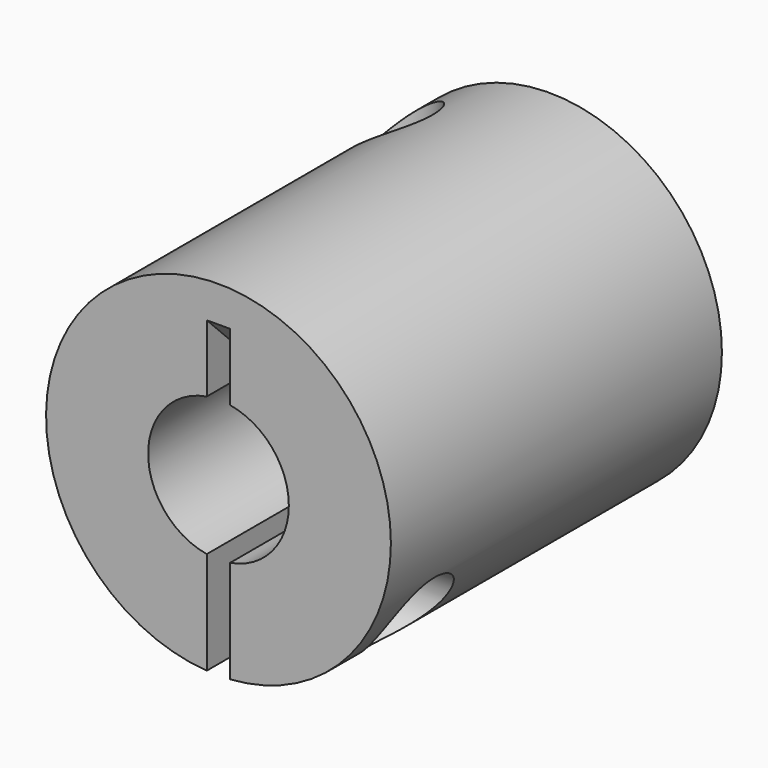
from build123d import *

# Parameters (mm, degrees)
F0_R      = 12.5
F1_DEPTH  = 30
F2_R      = 5.1
F3_DEPTH  = 21
F4_R      = 3.25
F5_DEPTH  = 30
F7_DEPTH  = 9
F11_DEPTH = 4.7828926987
F13_DEPTH = 9
F17_DEPTH = 25
F19_R     = 3
F20_DEPTH = 6.6740273092
F21_R     = 1
F22_DEPTH = 17.5010001
F24_R     = 3
F25_DEPTH = 6.6740273092
F26_R     = 1
F27_DEPTH = 17.5010001


with BuildPart() as f1:
    # F0 (on Front) → F1 (new body)
    with BuildSketch(Plane.XZ):
        Circle(F0_R)
    extrude(amount=-F1_DEPTH)

    # F2 (on face) → F3 (cut)
    with BuildSketch(Plane.XZ):
        Circle(F2_R)
    extrude(amount=-F3_DEPTH, mode=Mode.SUBTRACT)

    # F4 (on face) → F5 (cut)
    with BuildSketch(Plane(origin=(0, 30, 0), x_dir=(-1, 0, 0), z_dir=(0, 1, 0))):
        Circle(F4_R)
    extrude(amount=-F5_DEPTH, mode=Mode.SUBTRACT)

    # F6 (on face) → F7 (cut)
    with BuildSketch(Plane(origin=(0, 30, 0), x_dir=(-1, 0, 0), z_dir=(0, 1, 0))):
        with BuildLine():
            Line((12.4710665141, 0.85), (3.1368774283, 0.85))
            ThreePointArc((3.1368774283, 0.85), (3.25, 0), (3.1368774283, -0.85))
            Line((3.1368774283, -0.85), (12.4710665141, -0.85))
            ThreePointArc((12.4710665141, -0.85), (12.5, 0), (12.4710665141, 0.85))
        make_face()
    extrude(amount=-F7_DEPTH, mode=Mode.SUBTRACT)

    # F10 (on offset) → F11 (cut, through all)
    with BuildSketch(Plane(origin=(-10.0502525317, 10.0502525317, 0), x_dir=(-0.7071067812, -0.7071067812, 0), z_dir=(-0.7071067812, 0.7071067812, 0))):
        with BuildLine():
            Line((-15.0315791364, 0.85), (-30.0315791364, 0.85))
            add(Edge.make_bspline(
                [(-30.0315791364, 0.85), (-30.0725447305, 0), (-30.0315791364, -0.85)],
                knots=[4.6443364657, 4.6443364657, 4.6443364657, 4.7804414951, 4.7804414951, 4.7804414951], degree=2, weights=[1, 0.9976853211, 1]))
            Line((-30.0315791364, -0.85), (-15.0315791364, -0.85))
            Line((-15.0315791364, -0.85), (-15.0315791364, 0.85))
        make_face()
    extrude(amount=F11_DEPTH, mode=Mode.SUBTRACT)

    # F12 (on face) → F13 (cut)
    with BuildSketch(Plane.XZ):
        with BuildLine():
            ThreePointArc((0.85, -5.0286678156), (0, -5.1), (-0.85, -5.0286678156))
            Line((-0.85, -5.0286678156), (-0.85, -12.4710665141))
            ThreePointArc((-0.85, -12.4710665141), (0, -12.5), (0.85, -12.4710665141))
            Line((0.85, -12.4710665141), (0.85, -5.0286678156))
        make_face()
    extrude(amount=-F13_DEPTH, mode=Mode.SUBTRACT)

    # F16 (on offset) → F17 (cut)
    with BuildSketch(Plane(origin=(0, 4.9497474683, 4.9497474683), x_dir=(1, 0, 0), z_dir=(0, -0.7071067812, -0.7071067812))):
        with BuildLine():
            Line((-0.85, 8.8183757008), (-0.85, -6.1816242992))
            Line((-0.85, -6.1816242992), (0.85, -6.1816242992))
            Line((0.85, -6.1816242992), (0.85, 8.8183757008))
            add(Edge.make_bspline(
                [(0.85, 8.8183757008), (0, 8.8593412949), (-0.85, 8.8183757008)],
                knots=[1.5027438121, 1.5027438121, 1.5027438121, 1.6388488415, 1.6388488415, 1.6388488415], degree=2, weights=[1, 0.9976853211, 1]))
        make_face()
    extrude(amount=F17_DEPTH, mode=Mode.SUBTRACT)

    # F19 (on offset) → F20 (cut, through all)
    with BuildSketch(Plane.YZ.offset(5)):
        with Locations((5, -7.4710665141)):
            Circle(F19_R)
    extrude(amount=F20_DEPTH, mode=Mode.SUBTRACT)

    # F21 (on face) → F22 (cut, through all)
    with BuildSketch(Plane.YZ.offset(5)):
        with Locations((5, -7.4710665141)):
            Circle(F21_R)
    extrude(amount=-F22_DEPTH, mode=Mode.SUBTRACT)

    # F24 (on offset) → F25 (cut, through all)
    with BuildSketch(Plane.XY.offset(5)):
        with Locations((-7.4710665141, 25)):
            Circle(F24_R)
    extrude(amount=F25_DEPTH, mode=Mode.SUBTRACT)

    # F26 (on face) → F27 (cut, through all)
    with BuildSketch(Plane.XY.offset(5)):
        with Locations((-7.4710665141, 25)):
            Circle(F26_R)
    extrude(amount=-F27_DEPTH, mode=Mode.SUBTRACT)


solid = f1.part
